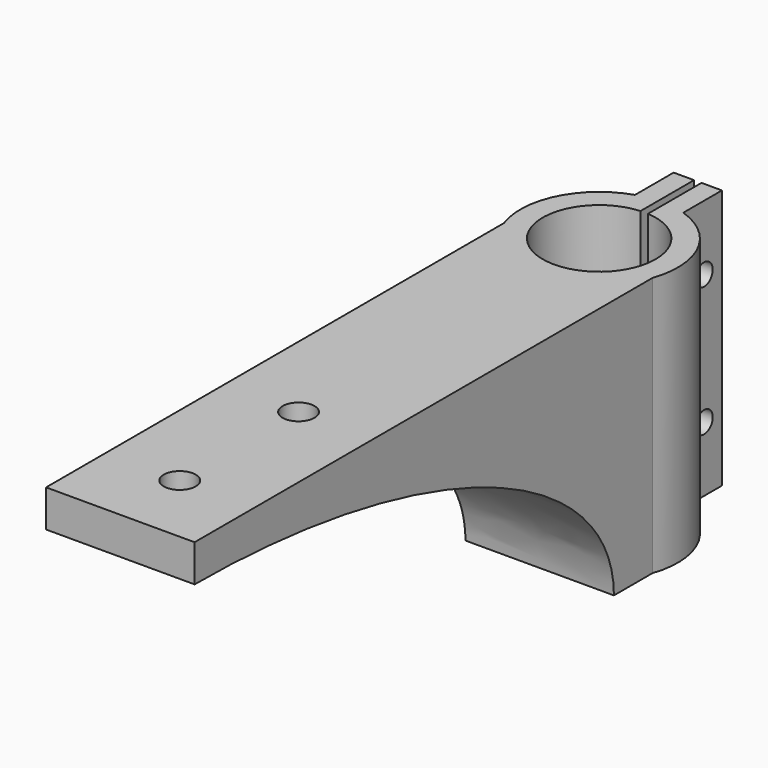
from build123d import *

# Parameters (mm, degrees)
F1_DEPTH  = 35
F0_R      = 7.6
F2_DEPTH  = 35
F3_R      = 2.15
F4_DEPTH  = 35.001
F5_R      = 3.65
F5_R_2    = 2.15
F6_DEPTH  = 31
F8_DEPTH  = 20.601
F9_W      = 0.5
F9_H      = 2
F10_DEPTH = 35.0010001
F11_R     = 1.45
F12_DEPTH = 13.851


with BuildPart() as f1:
    # F0 (on Top) → F1 (new body)
    with BuildSketch(Plane.XY):
        with BuildLine():
            ThreePointArc((10, -3.5156791662), (0, -10.6), (-10, -3.5156791662))
            Line((-10, -3.5156791662), (-10, -80.6))
            Line((-10, -80.6), (10, -80.6))
            Line((10, -80.6), (10, -3.5156791662))
        make_face()
    extrude(amount=-F1_DEPTH)

    # F0 (on Top) → F2 (join)
    with BuildSketch(Plane.XY):
        with BuildLine():
            Line((-3.25, 16.6), (-3.25, 10.0894747138))
            ThreePointArc((-3.25, 10.0894747138), (-9.4955609642, 4.7110850104), (-10, -3.5156791662))
            ThreePointArc((-10, -3.5156791662), (0, -10.6), (10, -3.5156791662))
            ThreePointArc((10, -3.5156791662), (9.4955609642, 4.7110850104), (3.25, 10.0894747138))
            Line((3.25, 10.0894747138), (3.25, 16.6))
            Line((3.25, 16.6), (-3.25, 16.6))
        make_face()
        Circle(F0_R, mode=Mode.SUBTRACT)
    extrude(amount=-F2_DEPTH)

    # F3 (on face) → F4 (cut, through all)
    with BuildSketch(Plane.XY):
        with Locations((0, -50.6)):
            Circle(F3_R)
        with Locations((0, -70.6)):
            Circle(F3_R)
    extrude(amount=-F4_DEPTH, mode=Mode.SUBTRACT)

    # F5 (on face) → F6 (cut)
    with BuildSketch(Plane(origin=(0, 0, -35), x_dir=(1, 0, 0), z_dir=(0, 0, -1))):
        with Locations((0, 70.6)):
            Circle(F5_R)
        with Locations((0, 70.6)):
            Circle(F5_R_2, mode=Mode.SUBTRACT)
        with Locations((0, 50.6)):
            Circle(F5_R)
        with Locations((0, 50.6)):
            Circle(F5_R_2, mode=Mode.SUBTRACT)
    extrude(amount=-F6_DEPTH, mode=Mode.SUBTRACT)

    # F7 (on face) → F8 (cut, through all)
    with BuildSketch(Plane.YZ.offset(10)):
        with BuildLine():
            Line((-80.6, -35), (-10.0156791662, -35))
            add(Edge.make_bspline(
                [(-10.0156791662, -35), (-10.0156791662, -5), (-80.6, -5)],
                knots=[0, 0, 0, 1.5707963268, 1.5707963268, 1.5707963268], degree=2, weights=[1, 0.7071067812, 1]))
            Line((-80.6, -5), (-80.6, -35))
        make_face()
    extrude(amount=-F8_DEPTH, mode=Mode.SUBTRACT)

    # F9 (on face) → F10 (cut, through all)
    with BuildSketch(Plane.XY):
        with BuildLine():
            Line((0.5, 16.6), (0, 16.6))
            Line((0, 16.6), (0, 7.6))
            ThreePointArc((0, 7.6), (0.2501355147, 7.5958825836), (0.5, 7.5835347959))
            Line((0.5, 7.5835347959), (0.5, 16.6))
        make_face()
        with BuildLine():
            Line((0, 0), (0, 7.6))
            ThreePointArc((0, 7.6), (-0.2501355147, 7.5958825836), (-0.5, 7.5835347959))
            Line((-0.5, 7.5835347959), (-0.5, 0))
            Line((-0.5, 0), (0, 0))
        make_face()
        with Locations((-0.25, 17.6)):
            Rectangle(F9_W, F9_H)
        with Locations((0.25, 17.6)):
            Rectangle(F9_W, F9_H)
        with BuildLine():
            ThreePointArc((0.5, 7.5835347959), (0.2501355147, 7.5958825836), (0, 7.6))
            Line((0, 7.6), (0, 0))
            Line((0, 0), (0.5, 0))
            Line((0.5, 0), (0.5, 7.5835347959))
        make_face()
        with BuildLine():
            Line((0, 7.6), (0, 16.6))
            Line((0, 16.6), (-0.5, 16.6))
            Line((-0.5, 16.6), (-0.5, 7.5835347959))
            ThreePointArc((-0.5, 7.5835347959), (-0.2501355147, 7.5958825836), (0, 7.6))
        make_face()
    extrude(amount=-F10_DEPTH, mode=Mode.SUBTRACT)

    # F11 (on face) → F12 (cut, through all)
    with BuildSketch(Plane.YZ.offset(3.25)):
        with Locations((13.6, -8.75)):
            Circle(F11_R)
        with Locations((13.6, -26.25)):
            Circle(F11_R)
    extrude(amount=-F12_DEPTH, mode=Mode.SUBTRACT)


solid = f1.part
